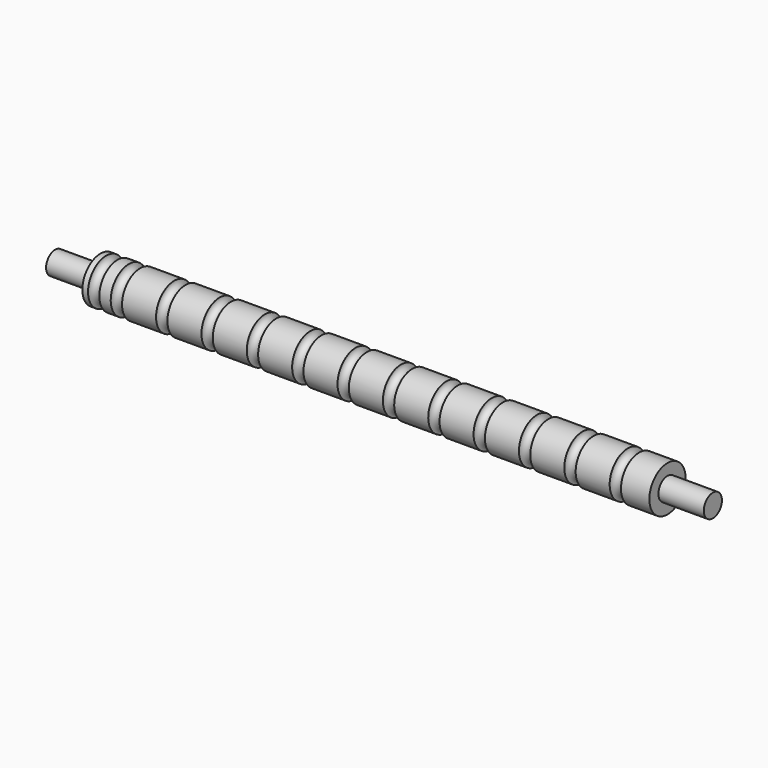
from build123d import *

# Parameters (mm, degrees)
F0_W = 12.7
F0_H = 3.175


with BuildPart() as f1:
    # F0 (on Front) → F1 (revolve)
    with BuildSketch(Plane.XZ):
        with BuildLine():
            Line((-76.2, 3.175), (-76.2, 0))
            Line((-76.2, 0), (82.55, 0))
            Line((82.55, 0), (95.25, 0))
            Line((95.25, 0), (95.25, 3.175))
            Line((95.25, 3.175), (82.55, 3.175))
            Line((82.55, 3.175), (82.55, 6.35))
            Line((82.55, 6.35), (74.6125, 6.35))
            ThreePointArc((74.6125, 6.35), (73.025, 4.7625), (71.4375, 6.35))
            Line((71.4375, 6.35), (61.9125, 6.35))
            ThreePointArc((61.9125, 6.35), (60.325, 4.7625), (58.7375, 6.35))
            Line((58.7375, 6.35), (49.2125, 6.35))
            ThreePointArc((49.2125, 6.35), (47.625, 4.7625), (46.0375, 6.35))
            Line((46.0375, 6.35), (36.5125, 6.35))
            ThreePointArc((36.5125, 6.35), (34.925, 4.7625), (33.3375, 6.35))
            Line((33.3375, 6.35), (23.8125, 6.35))
            ThreePointArc((23.8125, 6.35), (22.225, 4.7625), (20.6375, 6.35))
            Line((20.6375, 6.35), (11.1125, 6.35))
            ThreePointArc((11.1125, 6.35), (9.525, 4.7625), (7.9375, 6.35))
            Line((7.9375, 6.35), (-1.5875, 6.35))
            ThreePointArc((-1.5875, 6.35), (-3.175, 4.7625), (-4.7625, 6.35))
            Line((-4.7625, 6.35), (-14.2875, 6.35))
            ThreePointArc((-14.2875, 6.35), (-15.875, 4.7625), (-17.4625, 6.35))
            Line((-17.4625, 6.35), (-26.9875, 6.35))
            ThreePointArc((-26.9875, 6.35), (-28.575, 4.7625), (-30.1625, 6.35))
            Line((-30.1625, 6.35), (-39.6875, 6.35))
            ThreePointArc((-39.6875, 6.35), (-41.275, 4.7625), (-42.8625, 6.35))
            Line((-42.8625, 6.35), (-52.3875, 6.35))
            ThreePointArc((-52.3875, 6.35), (-53.975, 4.7625), (-55.5625, 6.35))
            Line((-55.5625, 6.35), (-65.0875, 6.35))
            ThreePointArc((-65.0875, 6.35), (-66.675, 4.7625), (-68.2625, 6.35))
            Line((-68.2625, 6.35), (-71.4375, 6.35))
            ThreePointArc((-71.4375, 6.35), (-73.025, 4.7625), (-74.6125, 6.35))
            Line((-74.6125, 6.35), (-76.2, 6.35))
            Line((-76.2, 6.35), (-76.2, 3.175))
        make_face()
        with Locations((-82.55, 1.5875)):
            Rectangle(F0_W, F0_H)
    revolve(axis=Axis((3.175, 0, 0), (1, 0, 0)))


solid = f1.part
